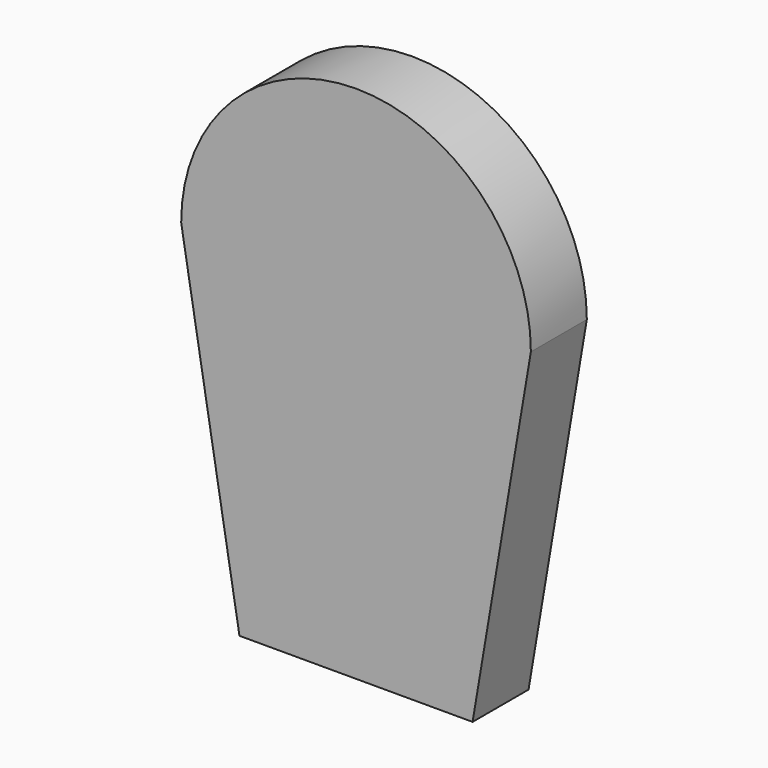
from build123d import *

# Parameters (mm, degrees)
F1_DEPTH = 3.81
F2_DEPTH = 3.81


with BuildPart() as f1:
    # F0 (on Front) → F1 (new body)
    with BuildSketch(Plane.XZ):
        Polygon((-6.35, 0), (0, 0), (6.35, 0), (9.525, 18.783553), (-9.525, 18.783553), align=None)
    extrude(amount=F1_DEPTH)

    # F0 (on Front) → F2 (join)
    with BuildSketch(Plane.XZ):
        with BuildLine():
            Line((-9.525, 18.783553), (9.525, 18.783553))
            ThreePointArc((9.525, 18.783553), (0, 28.308553), (-9.525, 18.783553))
        make_face()
    extrude(amount=F2_DEPTH)


solid = f1.part
